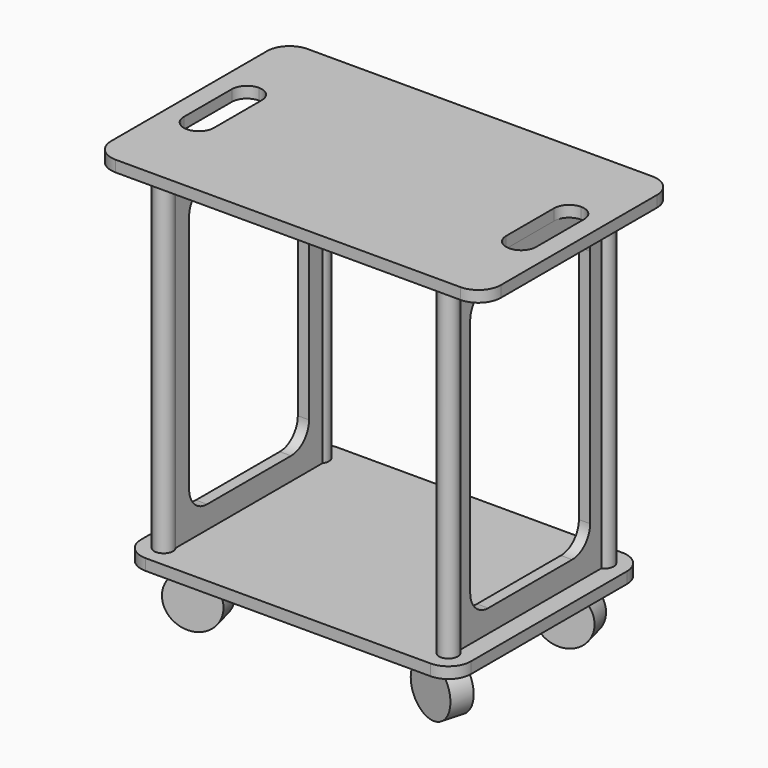
from build123d import *

# Parameters (mm, degrees)
F1_DEPTH  = 19.05
F5_W      = 330.2
F5_H      = 558.8
F6_DEPTH  = 19.05
F8_DEPTH  = 527.051
F10_W     = 19.05
F10_H     = 330.2
F11_DEPTH = 19.05
F13_DEPTH = 25.4
F14_R     = 15.875
F15_DEPTH = 558.8
F18_R     = 44.45
F19_DEPTH = 19.05


with BuildPart() as f1:
    # F0 (on Top) → F1 (new body)
    with BuildSketch(Plane.XY):
        with BuildLine():
            Line((-241.3, -203.2), (241.3, -203.2))
            ThreePointArc((241.3, -203.2), (268.240768, -192.040768), (279.4, -165.1))
            Line((279.4, -165.1), (279.4, 165.1))
            ThreePointArc((279.4, 165.1), (268.240768, 192.040768), (241.3, 203.2))
            Line((241.3, 203.2), (-241.3, 203.2))
            ThreePointArc((-241.3, 203.2), (-268.240768, 192.040768), (-279.4, 165.1))
            Line((-279.4, 165.1), (-279.4, -165.1))
            ThreePointArc((-279.4, -165.1), (-268.240768, -192.040768), (-241.3, -203.2))
        make_face()
    extrude(amount=F1_DEPTH)


with BuildPart() as f6:
    # F5 (on face) → F6 (new body)
    with BuildSketch(Plane(origin=(-247.65, 0, 0), x_dir=(0, -1, 0), z_dir=(-1, 0, 0))):
        with Locations((0, 298.45)):
            Rectangle(F5_W, F5_H)
    extrude(amount=-F6_DEPTH)

    # F7 (on face) → F8 (cut, through all)
    with BuildSketch(Plane(origin=(-247.65, 0, 0), x_dir=(0, -1, 0), z_dir=(-1, 0, 0))):
        with BuildLine():
            Line((88.9, 539.75), (-88.9, 539.75))
            ThreePointArc((-88.9, 539.75), (-115.840768, 528.590768), (-127, 501.65))
            Line((-127, 501.65), (-127, 95.25))
            ThreePointArc((-127, 95.25), (-115.840768, 68.309232), (-88.9, 57.15))
            Line((-88.9, 57.15), (88.9, 57.15))
            ThreePointArc((88.9, 57.15), (115.840768, 68.309232), (127, 95.25))
            Line((127, 95.25), (127, 501.65))
            ThreePointArc((127, 501.65), (115.840768, 528.590768), (88.9, 539.75))
        make_face()
    extrude(amount=-F8_DEPTH, mode=Mode.SUBTRACT)


with BuildPart() as f9_1:
    # F9: instance of F1
    add(f1.part.mirror(Plane.YZ))


with BuildPart() as f9_2:
    # F9: instance of F6
    add(f6.part.mirror(Plane.YZ))


with BuildPart() as f11:
    # F10 (on face) → F11 (new body)
    with BuildSketch(Plane.XY.offset(577.85)):
        with BuildLine():
            ThreePointArc((-330.2, -165.1), (-319.040768, -192.040768), (-292.1, -203.2))
            Line((-292.1, -203.2), (292.1, -203.2))
            ThreePointArc((292.1, -203.2), (319.040768, -192.040768), (330.2, -165.1))
            Line((330.2, -165.1), (330.2, 165.1))
            ThreePointArc((330.2, 165.1), (319.040768, 192.040768), (292.1, 203.2))
            Line((292.1, 203.2), (-292.1, 203.2))
            ThreePointArc((-292.1, 203.2), (-319.040768, 192.040768), (-330.2, 165.1))
            Line((-330.2, 165.1), (-330.2, -165.1))
        make_face()
        with Locations((-238.125, 0)):
            Rectangle(F10_W, F10_H, mode=Mode.SUBTRACT)
        with Locations((-238.125, 0)):
            Rectangle(F10_W, F10_H)
    extrude(amount=F11_DEPTH)

    # F12 (on face) → F13 (cut)
    with BuildSketch(Plane.XY.offset(596.9)):
        with BuildLine():
            ThreePointArc((-273.05, -76.2), (-255.089488, -68.760512), (-247.65, -50.8))
            Line((-247.65, -50.8), (-247.65, 50.8))
            ThreePointArc((-247.65, 50.8), (-255.089488, 68.760512), (-273.05, 76.2))
            ThreePointArc((-273.05, 76.2), (-291.010512, 68.760512), (-298.45, 50.8))
            Line((-298.45, 50.8), (-298.45, -50.8))
            ThreePointArc((-298.45, -50.8), (-291.010512, -68.760512), (-273.05, -76.2))
        make_face()
        with BuildLine():
            ThreePointArc((247.65, -50.8), (255.089488, -68.760512), (273.05, -76.2))
            ThreePointArc((273.05, -76.2), (291.010512, -68.760512), (298.45, -50.8))
            Line((298.45, -50.8), (298.45, 50.8))
            ThreePointArc((298.45, 50.8), (291.010512, 68.760512), (273.05, 76.2))
            ThreePointArc((273.05, 76.2), (255.089488, 68.760512), (247.65, 50.8))
            Line((247.65, 50.8), (247.65, -50.8))
        make_face()
    extrude(amount=-F13_DEPTH, mode=Mode.SUBTRACT)


with BuildPart() as f15:
    # F14 (on face) → F15 (new body)
    with BuildSketch(Plane.XY.offset(19.05)):
        with Locations((-241.3, -165.1)):
            Circle(F14_R)
        with Locations((241.3, -165.1)):
            Circle(F14_R)
        with Locations((-241.3, 165.1)):
            Circle(F14_R)
        with Locations((241.3, 165.1)):
            Circle(F14_R)
    extrude(amount=F15_DEPTH)


with BuildPart() as f19:
    # F18 (on face) → F19 (new body, symmetric)
    with BuildSketch(Plane(origin=(19.910852, -73.647704, 0), x_dir=(0.965343, 0.260983, 0), z_dir=(0.260983, -0.965343, 0))):
        with Locations((-234.522119, -53.251639)):
            Circle(F18_R)
    extrude(amount=F19_DEPTH, both=True)


with BuildPart() as f20_1:
    # F20: instance of F19
    add(f19.part.mirror(Plane.YZ))


with BuildPart() as f21_1:
    # F21: instance of F19
    add(f19.part.mirror(Plane.XZ))


with BuildPart() as f21_2:
    # F21: instance of F20_1
    add(f20_1.part.mirror(Plane.XZ))


solid = Compound([f1.part, f6.part, f9_1.part, f9_2.part, f11.part, f15.part, f19.part, f20_1.part, f21_1.part, f21_2.part])
